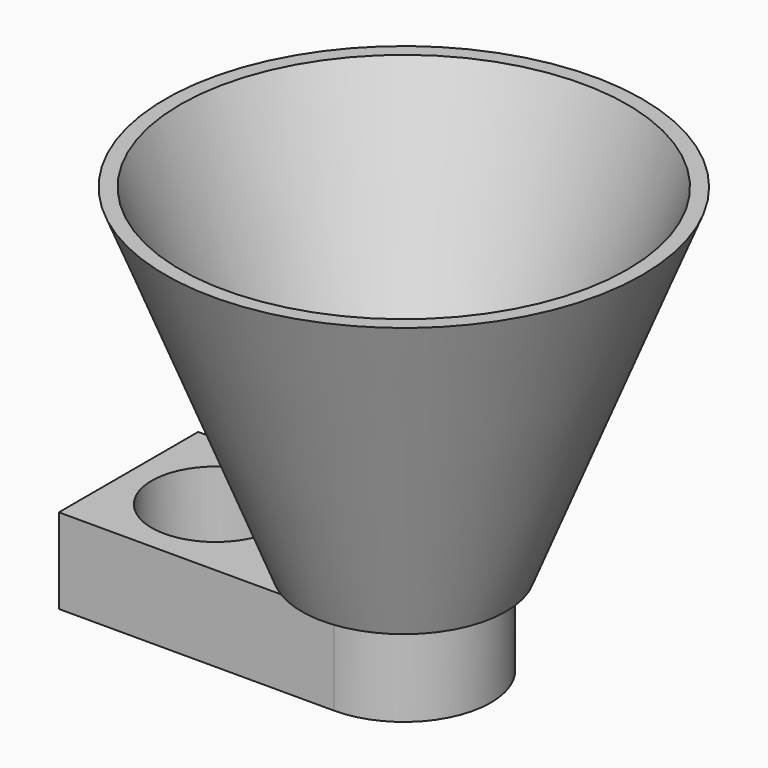
from build123d import *

# Parameters (mm, degrees)
F0_R     = 35.566543
F2_R     = 15.24
F4_R     = 33.346959
F5_R     = 12.7
F7_R     = 9.525
F7_R_2   = 12.723879
F8_DEPTH = 12.7


with BuildPart() as f3:
    # F0 (on Top) → F3 section 0
    with BuildSketch(Plane.XY):
        Circle(F0_R)
    # F2 (on offset) → F3 section 1
    with BuildSketch(Plane.XY.offset(-50.8)):
        Circle(F2_R)
    loft()

    # F4 (on Top) → F6 section 0
    with BuildSketch(Plane.XY):
        Circle(F4_R)
    # F5 (on offset) → F6 section 1
    with BuildSketch(Plane.XY.offset(-50.8)):
        Circle(F5_R)
    loft(mode=Mode.SUBTRACT)

    # F7 (on offset) → F8 (join)
    with BuildSketch(Plane.XY.offset(-50.8)):
        with BuildLine():
            Line((-0.354267, -12.987269), (0, -12.987269))
            ThreePointArc((0, -12.987269), (12.987269, 0), (0, 12.987269))
            Line((0, 12.987269), (-0.354267, 12.987269))
            Line((-0.354267, 12.987269), (-41.074779, 12.987269))
            Line((-41.074779, 12.987269), (-41.074779, -12.987269))
            Line((-41.074779, -12.987269), (-0.354267, -12.987269))
        make_face()
        with Locations((-28.089361, 0)):
            Circle(F7_R, mode=Mode.SUBTRACT)
        Circle(F7_R_2, mode=Mode.SUBTRACT)
    extrude(amount=-F8_DEPTH)


solid = f3.part
